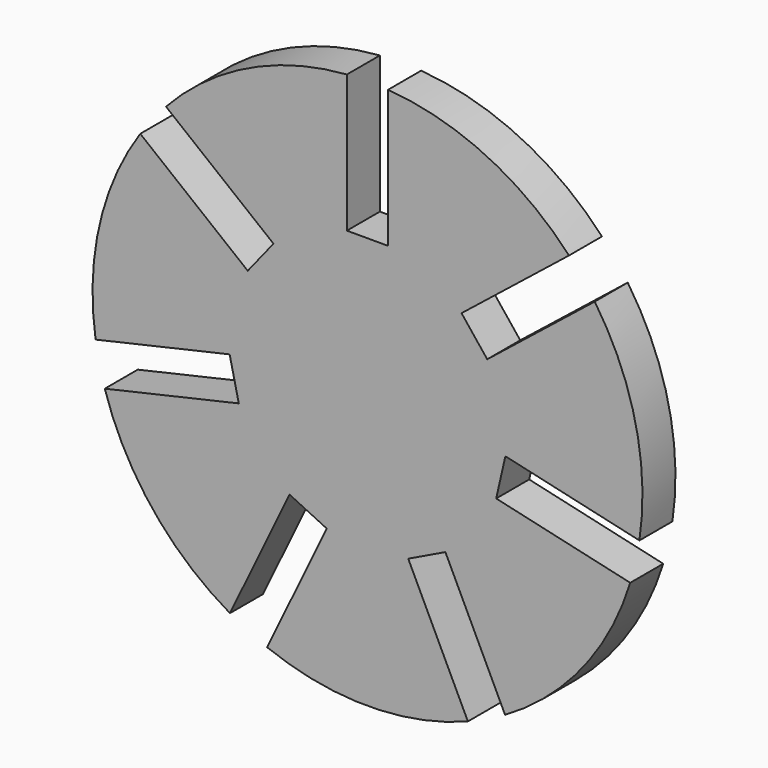
from build123d import *

# Parameters (mm, degrees)
F1_DEPTH = 3


with BuildPart() as f1:
    # F0 (on Front) → F1 (new body)
    with BuildSketch(Plane.XZ):
        with BuildLine():
            Line((0.489387, 13.447799), (0.489387, 3.447799))
            Line((0.489387, 3.447799), (-2.510613, 3.447799))
            Line((-2.510613, 3.447799), (-2.510613, 13.447799))
            ThreePointArc((-2.510613, 13.447799), (-9.688287, 11.523506), (-15.667967, 7.111551))
            Line((-15.667967, 7.111551), (-7.849653, 0.876653))
            Line((-7.849653, 0.876653), (-9.720122, -1.468841))
            Line((-9.720122, -1.468841), (-17.538437, 4.766057))
            ThreePointArc((-17.538437, 4.766057), (-20.509171, -2.045453), (-20.788035, -9.471364))
            Line((-20.788035, -9.471364), (-11.038756, -7.246154))
            Line((-11.038756, -7.246154), (-10.371193, -10.170938))
            Line((-10.371193, -10.170938), (-20.120472, -12.396147))
            ThreePointArc((-20.120472, -12.396147), (-16.647242, -18.965667), (-11.0153, -23.813672))
            Line((-11.0153, -23.813672), (-6.676463, -14.803983))
            Line((-6.676463, -14.803983), (-3.973556, -16.105635))
            Line((-3.973556, -16.105635), (-8.312394, -25.115323))
            ThreePointArc((-8.312394, -25.115323), (-1.010613, -26.495871), (6.291169, -25.115323))
            Line((6.291169, -25.115323), (1.952331, -16.105635))
            Line((1.952331, -16.105635), (4.655238, -14.803983))
            Line((4.655238, -14.803983), (8.994075, -23.813672))
            ThreePointArc((8.994075, -23.813672), (14.626017, -18.965667), (18.099247, -12.396147))
            Line((18.099247, -12.396147), (8.349968, -10.170938))
            Line((8.349968, -10.170938), (9.017531, -7.246154))
            Line((9.017531, -7.246154), (18.76681, -9.471364))
            ThreePointArc((18.76681, -9.471364), (18.487946, -2.045453), (15.517212, 4.766057))
            Line((15.517212, 4.766057), (7.698897, -1.468841))
            Line((7.698897, -1.468841), (5.828427, 0.876653))
            Line((5.828427, 0.876653), (13.646742, 7.111551))
            ThreePointArc((13.646742, 7.111551), (7.667062, 11.523506), (0.489387, 13.447799))
        make_face()
    extrude(amount=F1_DEPTH)


solid = f1.part
